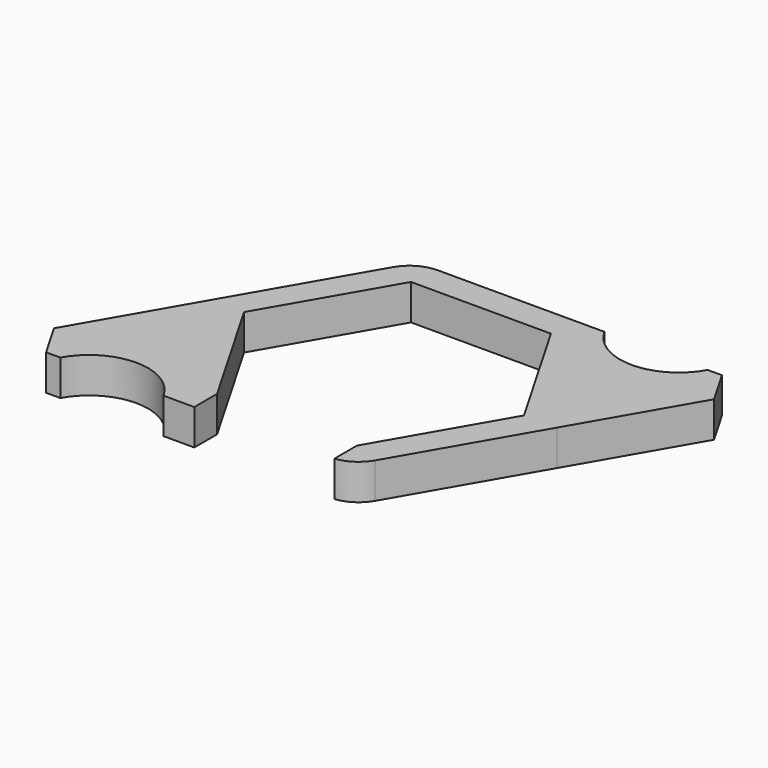
from build123d import *

# Parameters (mm, degrees)
F1_DEPTH = 5


with BuildPart() as f1:
    # F0 (on Top) → F1 (new body)
    with BuildSketch(Plane.XY):
        with BuildLine():
            Line((12.124356, 21), (24.248711, 0))
            Line((24.248711, 0), (33.486316, 16))
            Line((33.486316, 16), (30.599564, 21))
            Line((30.599564, 21), (28.599564, 21))
            ThreePointArc((28.599564, 21), (21.36196, 16.730604), (14.124356, 21))
            Line((14.124356, 21), (12.124356, 21))
        make_face()
        with BuildLine():
            Line((-9.814955, -17), (-19.629909, 0))
            Line((-19.629909, 0), (-9.814955, 17))
            Line((-9.814955, 17), (9.814955, 17))
            Line((9.814955, 17), (19.629909, 0))
            Line((19.629909, 0), (9.814955, -17))
            Line((9.814955, -17), (9.814955, -20.966555))
            ThreePointArc((9.814955, -20.966555), (11.983839, -20.1783), (13.567731, -18.5))
            Line((13.567731, -18.5), (24.248711, 0))
            Line((24.248711, 0), (12.124356, 21))
            Line((12.124356, 21), (-9.237604, 21))
            ThreePointArc((-9.237604, 21), (-11.737604, 20.330127), (-13.567731, 18.5))
            Line((-13.567731, 18.5), (-24.248711, 0))
            Line((-24.248711, 0), (-12.124356, -21))
            Line((-12.124356, -21), (-9.814955, -21))
            Line((-9.814955, -21), (-9.814955, -17))
        make_face()
        with BuildLine():
            Line((-14.124356, -21), (-12.124356, -21))
            Line((-12.124356, -21), (-24.248711, 0))
            Line((-24.248711, 0), (-33.486316, -16))
            Line((-33.486316, -16), (-30.599564, -21))
            Line((-30.599564, -21), (-28.599564, -21))
            ThreePointArc((-28.599564, -21), (-21.36196, -16.730604), (-14.124356, -21))
        make_face()
    extrude(amount=F1_DEPTH)


solid = f1.part
